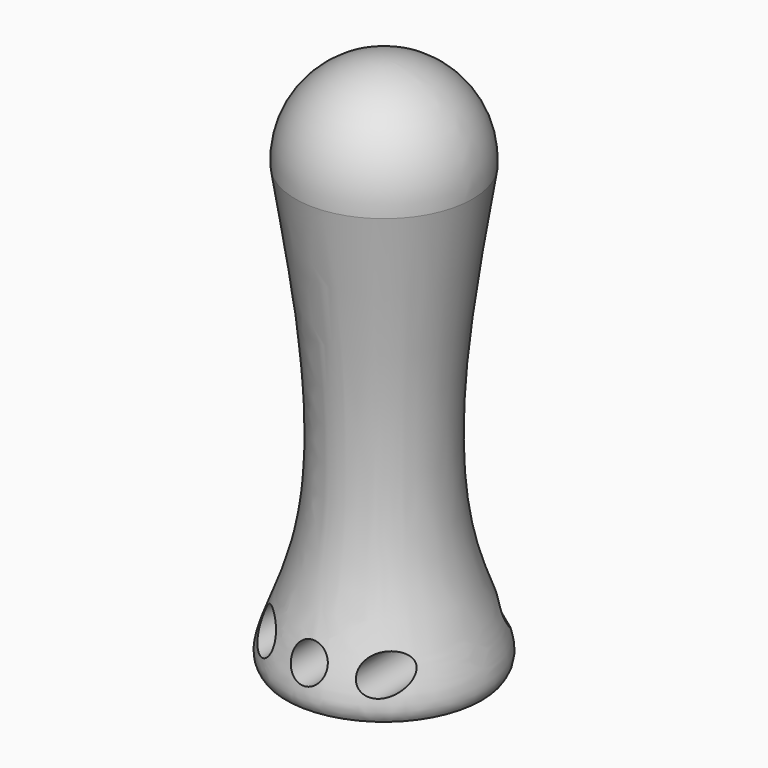
from build123d import *

# Parameters (mm, degrees)
F2_R     = 2.54
F3_DEPTH = 35.56


with BuildPart() as f1:
    # F0 (on Front) → F1 (revolve)
    with BuildSketch(Plane.XZ):
        with BuildLine():
            Line((0, 63.5), (0, 0))
            Line((0, 0), (13.9839846409, 0))
            add(Edge.make_bspline(
                [(12.6718559301, 62.6549749789), (10.0409044324, 46.5322519073), (8.2791290866, 32.4569064803), (9.5478393375, 14.047263352), (15.3657679629, 2.3531345384), (14.303912806, 0.4835576882), (13.9839846409, 0)],
                knots=[0, 0, 0, 0, 0.3869118039, 0.6685926084, 0.902915582, 1, 1, 1, 1], degree=3))
            ThreePointArc((12.6718559301, 62.6549749789), (9.2742066445, 72.1763524085), (0, 76.2))
            Line((0, 76.2), (0, 63.5))
        make_face()
    revolve(axis=Axis((0, 0, 31.75), (0, 0, 1)))

    # F2 (on Front) → F3 (cut, symmetric)
    with BuildSketch(Plane.XZ):
        with Locations((0, 5.6441472843)):
            Circle(F2_R)
        with Locations((8.4059617448, 5.6441472843)):
            Circle(F2_R)
        with Locations((-8.4059617448, 5.6441472843)):
            Circle(F2_R)
    extrude(amount=F3_DEPTH, both=True, mode=Mode.SUBTRACT)


solid = f1.part
